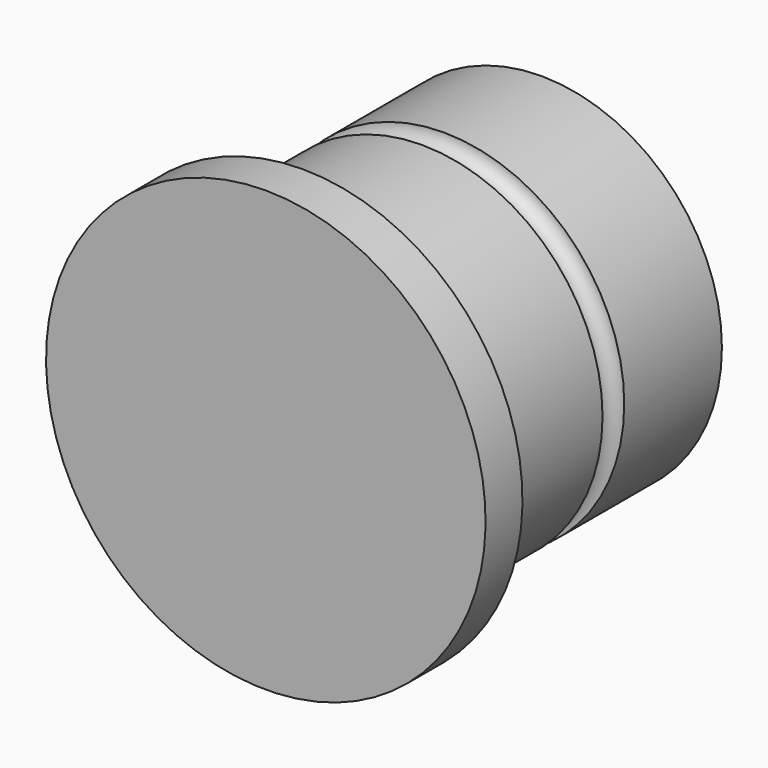
from build123d import *


with BuildPart() as f1:
    # F0 (on Right) → F1 (revolve)
    with BuildSketch(Plane.YZ):
        with BuildLine():
            Line((-9.532932, 10.287), (-9.532932, 0))
            Line((-9.532932, 0), (-7.373932, 0))
            Line((-7.373932, 0), (6.596068, 0))
            Line((6.596068, 0), (6.596068, 8.4455))
            Line((6.596068, 8.4455), (3.657317, 8.4455))
            Line((3.657317, 8.4455), (0.881068, 8.4455))
            ThreePointArc((0.881068, 8.4455), (0.246068, 7.8105), (-0.388932, 8.4455))
            Line((-0.388932, 8.4455), (-3.165181, 8.4455))
            Line((-3.165181, 8.4455), (-7.373932, 8.4455))
            Line((-7.373932, 8.4455), (-7.373932, 10.287))
            Line((-7.373932, 10.287), (-9.532932, 10.287))
        make_face()
    revolve(axis=Axis((0, -0.388932, 0), (0, 1, 0)))


solid = f1.part
